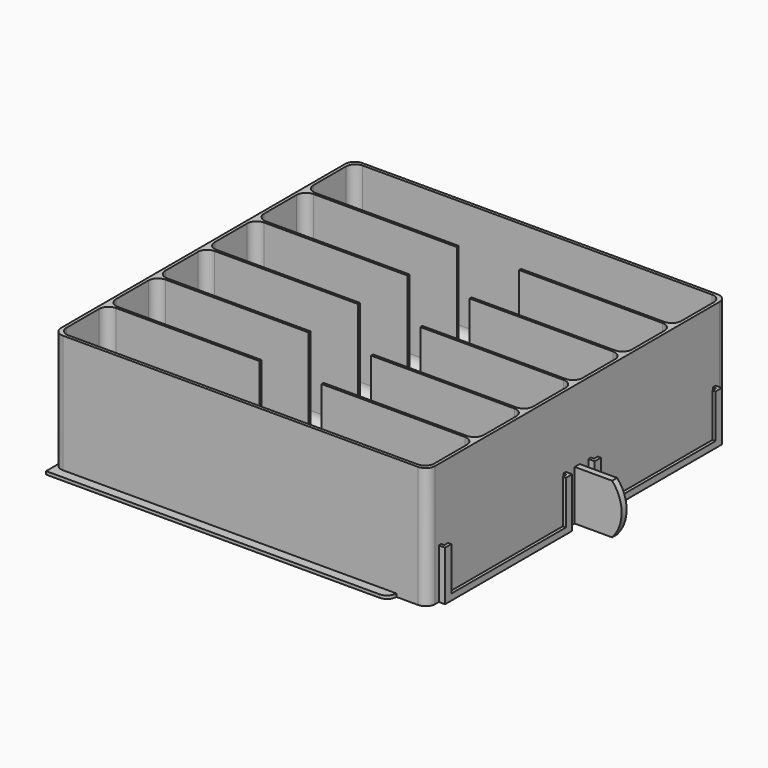
from build123d import *

# Parameters (mm, degrees)
PAD_DEPTH              = 39
PAD001_DEPTH           = 1
SKETCH002_W            = 51
SKETCH002_H            = 16
PAD002_DEPTH           = 2
SKETCH003_W            = 46
SKETCH003_H            = 14
POCKET_DEPTH           = 3
SKETCH004_W            = 49
SKETCH004_H            = 15
POCKET001_DEPTH        = 1
PAD003_DEPTH           = 1
POCKET007_DEPTH        = 38
LINEARPATTERN001_COUNT = 6
LINEARPATTERN001_PITCH = 19.8
FILLET001_R            = 3
POCKET008_DEPTH        = 43


with BuildPart() as part:
    # Sketch → Pad (new body)
    with BuildSketch(Plane.XY):
        with BuildLine():
            Line((-57, 60), (57, 60))
            ThreePointArc((60, 57), (59.12132, 59.12132), (57, 60))
            Line((60, 57), (60, -57))
            ThreePointArc((57, -60), (59.12132, -59.12132), (60, -57))
            Line((57, -60), (-57, -60))
            ThreePointArc((-60, -57), (-59.12132, -59.12132), (-57, -60))
            Line((-60, -57), (-60, 57))
            ThreePointArc((-57, 60), (-59.12132, 59.12132), (-60, 57))
        make_face()
    extrude(amount=PAD_DEPTH)

    # Sketch001 → Pad001 (join)
    with BuildSketch(Plane.XY):
        with BuildLine():
            Line((-60, 63), (47, 63))
            ThreePointArc((50, 60), (49.12132, 62.12132), (47, 63))
            Line((50, 60), (50, -60))
            ThreePointArc((47, -63), (49.12132, -62.12132), (50, -60))
            Line((47, -63), (-60, -63))
            Line((-60, -63), (-60, 63))
        make_face()
    extrude(amount=PAD001_DEPTH)

    # Sketch002 (on Face19 of Pad001) → Pad002 (join)
    with BuildSketch(Plane.YZ.offset(60)):
        with Locations((-30, 8)):
            Rectangle(SKETCH002_W, SKETCH002_H)
        with Locations((30, 8)):
            Rectangle(SKETCH002_W, SKETCH002_H)
    extrude(amount=PAD002_DEPTH)

    # Sketch003 (on DatumPlane) → Pocket (cut)
    with BuildSketch(Plane.YZ.offset(60)):
        with Locations((-30, 9)):
            Rectangle(SKETCH003_W, SKETCH003_H)
        with Locations((30, 9)):
            Rectangle(SKETCH003_W, SKETCH003_H)
    extrude(amount=POCKET_DEPTH, mode=Mode.SUBTRACT)

    # Sketch004 (on DatumPlane) → Pocket001 (cut)
    with BuildSketch(Plane.YZ.offset(60)):
        with Locations((-30, 8.5)):
            Rectangle(SKETCH004_W, SKETCH004_H)
        with Locations((30, 8.5)):
            Rectangle(SKETCH004_W, SKETCH004_H)
    extrude(amount=POCKET001_DEPTH, mode=Mode.SUBTRACT)

    # Sketch005 → Pad003 (join, symmetric)
    with BuildSketch(Plane.XZ):
        with BuildLine():
            ThreePointArc((72, 0), (75.055728, 8), (72, 16))
            Line((72, 16), (60, 16))
            Line((60, 16), (60, 0))
            Line((60, 0), (72, 0))
        make_face()
    extrude(amount=PAD003_DEPTH, both=True)

    # Sketch012 → Pocket007 (cut)
    with BuildSketch(Plane.XY.offset(39)):
        with BuildLine():
            Line((-56, -40), (56, -40))
            ThreePointArc((59, -43), (58.12132, -40.87868), (56, -40))
            Line((59, -43), (59, -56))
            ThreePointArc((56, -59), (58.12132, -58.12132), (59, -56))
            Line((56, -59), (-56, -59))
            ThreePointArc((-59, -56), (-58.12132, -58.12132), (-56, -59))
            Line((-59, -56), (-59, -43))
            ThreePointArc((-56, -40), (-58.12132, -40.87868), (-59, -43))
        make_face()
    pocket007 = extrude(amount=-POCKET007_DEPTH, mode=Mode.SUBTRACT)

    # LinearPattern001: Pocket007 ×6
    with Locations(*[(0, i * LINEARPATTERN001_PITCH, 0) for i in range(1, LINEARPATTERN001_COUNT)]):
        add(pocket007, mode=Mode.SUBTRACT)

    # Fillet001
    fillet001_edges = [part.edges().sort_by_distance(p)[0] for p in [
        (-59, -49.5, 1),
        (-58.12132, -40.87868, 1),
        (0, -40, 1),
        (58.12132, -40.87868, 1),
        (59, -49.5, 1),
        (58.12132, -58.12132, 1),
        (0, -59, 1),
        (-58.12132, -58.12132, 1),
        (-59, -29.7, 1),
        (-58.12132, -21.07868, 1),
        (0, -20.2, 1),
        (58.12132, -21.07868, 1),
        (59, -29.7, 1),
        (58.12132, -38.32132, 1),
        (0, -39.2, 1),
        (-58.12132, -38.32132, 1),
        (-59, -9.9, 1),
        (-58.12132, -1.27868, 1),
        (0, -0.4, 1),
        (58.12132, -1.27868, 1),
        (59, -9.9, 1),
        (58.12132, -18.52132, 1),
        (0, -19.4, 1),
        (-58.12132, -18.52132, 1),
        (-59, 9.9, 1),
        (-58.12132, 18.52132, 1),
        (0, 19.4, 1),
        (58.12132, 18.52132, 1),
        (59, 9.9, 1),
        (58.12132, 1.27868, 1),
        (0, 0.4, 1),
        (-58.12132, 1.27868, 1),
        (-59, 29.7, 1),
        (-58.12132, 38.32132, 1),
        (0, 39.2, 1),
        (58.12132, 38.32132, 1),
        (59, 29.7, 1),
        (58.12132, 21.07868, 1),
        (0, 20.2, 1),
        (-58.12132, 21.07868, 1),
        (-59, 49.5, 1),
        (-58.12132, 58.12132, 1),
        (0, 59, 1),
        (58.12132, 58.12132, 1),
        (59, 49.5, 1),
        (58.12132, 40.87868, 1),
        (0, 40, 1),
        (-58.12132, 40.87868, 1),
    ]]
    fillet(fillet001_edges, radius=FILLET001_R)

    # Sketch013 → Pocket008 (cut, symmetric)
    with BuildSketch(Plane.XZ):
        with BuildLine():
            ThreePointArc((-10, 11), (6e-06, 1), (10, 11.000011))
            Line((10, 40), (10, 11.000011))
            Line((-10, 40), (10, 40))
            Line((-10, 11), (-10, 40))
        make_face()
    extrude(amount=POCKET008_DEPTH, both=True, mode=Mode.SUBTRACT)


solid = part.part
